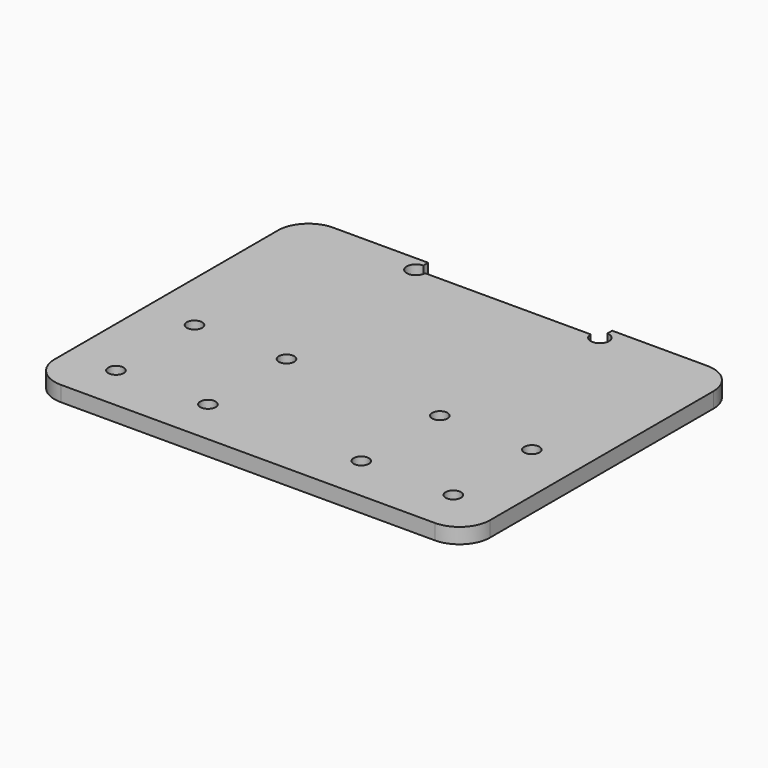
from build123d import *

# Parameters (mm, degrees)
F0_R     = 2.5
F1_DEPTH = 5


with BuildPart() as f1:
    # F0 (on Top) → F1 (new body)
    with BuildSketch(Plane.XY):
        with BuildLine():
            ThreePointArc((30, 51.5), (32.12132, 46.37868), (27, 48.5))
            Line((27, 48.5), (-27, 48.5))
            ThreePointArc((-27, 48.5), (-32.12132, 46.37868), (-30, 51.5))
            Line((-30, 51.5), (-30, 53.5))
            Line((-30, 53.5), (-61, 53.5))
            ThreePointArc((-61, 53.5), (-68.071068, 50.571068), (-71, 43.5))
            Line((-71, 43.5), (-71, -47.5))
            ThreePointArc((-71, -47.5), (-68.071068, -54.571068), (-61, -57.5))
            Line((-61, -57.5), (61, -57.5))
            ThreePointArc((61, -57.5), (68.071068, -54.571068), (71, -47.5))
            Line((71, -47.5), (71, 43.5))
            ThreePointArc((71, 43.5), (68.071068, 50.571068), (61, 53.5))
            Line((61, 53.5), (30, 53.5))
            Line((30, 53.5), (30, 51.5))
        make_face()
        with Locations((-55, -42.5)):
            Circle(F0_R, mode=Mode.SUBTRACT)
        with Locations((-25, -42.5)):
            Circle(F0_R, mode=Mode.SUBTRACT)
        with Locations((-55, -10.5)):
            Circle(F0_R, mode=Mode.SUBTRACT)
        with Locations((-25, -10.5)):
            Circle(F0_R, mode=Mode.SUBTRACT)
        with Locations((25, -42.5)):
            Circle(F0_R, mode=Mode.SUBTRACT)
        with Locations((55, -42.5)):
            Circle(F0_R, mode=Mode.SUBTRACT)
        with Locations((25, -10.5)):
            Circle(F0_R, mode=Mode.SUBTRACT)
        with Locations((55, -10.5)):
            Circle(F0_R, mode=Mode.SUBTRACT)
    extrude(amount=F1_DEPTH)


solid = f1.part
